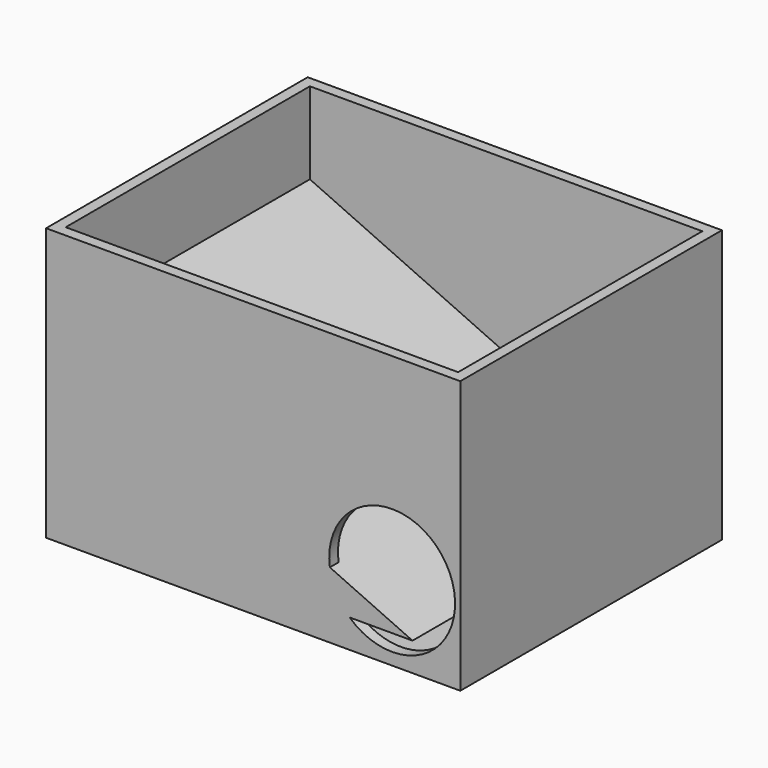
from build123d import *

# Parameters (mm, degrees)
F0_W     = 76
F0_H     = 50
F1_DEPTH = 60
F2_W     = 72
F2_H     = 56
F3_DEPTH = 48.5
F4_R     = 11.544543
F5_DEPTH = 25
F7_DEPTH = 58


with BuildPart() as f1:
    # F0 (on Front) → F1 (new body)
    with BuildSketch(Plane.XZ):
        with Locations((1.184214, -10.245586)):
            Rectangle(F0_W, F0_H)
    extrude(amount=-F1_DEPTH)

    # F2 (on face) → F3 (cut)
    with BuildSketch(Plane.XY.offset(14.754414)):
        with Locations((1.184214, 30)):
            Rectangle(F2_W, F2_H)
    extrude(amount=-F3_DEPTH, mode=Mode.SUBTRACT)

    # F4 (on face) → F5 (cut)
    with BuildSketch(Plane.XZ):
        with Locations((26.681723, -21.490686)):
            Circle(F4_R)
    extrude(amount=-F5_DEPTH, mode=Mode.SUBTRACT)

    # F6 (on Front) → F7 (join)
    with BuildSketch(Plane.XZ):
        Polygon((-35.402854, 0), (-35.402854, -30), (30.412122, -30), align=None)
    extrude(amount=-F7_DEPTH)


solid = f1.part
